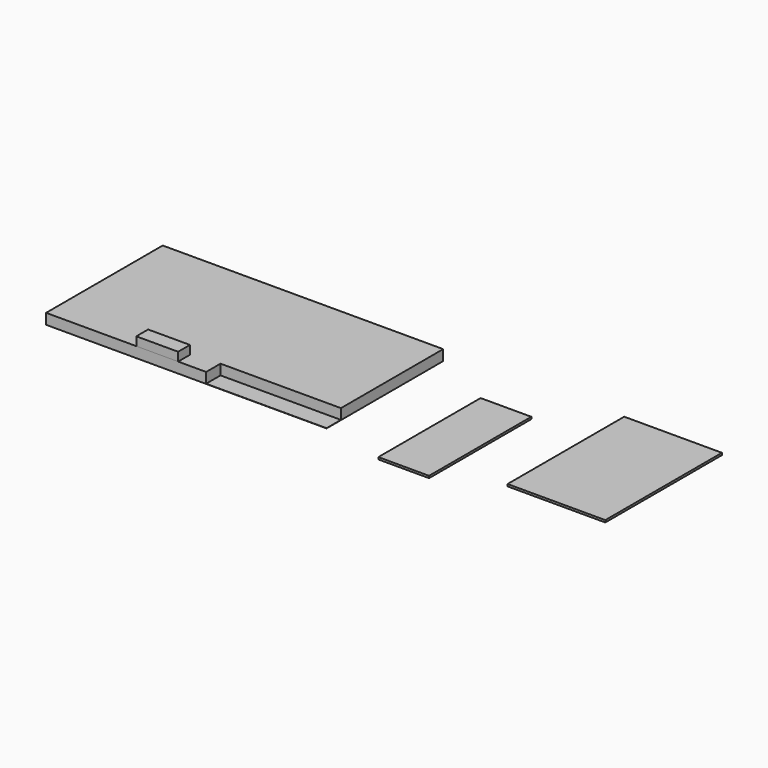
from build123d import *

# Parameters (mm, degrees)
F0_W     = 3371.85
F0_H     = 1752.6
F1_DEPTH = 127
F2_W     = 1447.8
F2_H     = 215.9
F3_DEPTH = 124.46
F4_W     = 502.824642
F4_H     = 104.193904
F5_DEPTH = 177.8
F6_W     = 609.6
F6_H     = 1536.7
F7_DEPTH = 25.4
F8_W     = 1174.75
F8_H     = 1752.6
F9_DEPTH = 25.4


with BuildPart() as f1:
    # F0 (on Top) → F1 (new body)
    with BuildSketch(Plane.XY):
        Rectangle(F0_W, F0_H)
    extrude(amount=-F1_DEPTH)

    # F2 (on face) → F3 (cut)
    with BuildSketch(Plane.XY):
        with Locations((962.025, -768.35)):
            Rectangle(F2_W, F2_H)
    extrude(amount=-F3_DEPTH, mode=Mode.SUBTRACT)


with BuildPart() as f5:
    # F4 (on face) → F5 (new body)
    with BuildSketch(Plane.XZ.offset(876.3)):
        with Locations((-349.837321, 52.096952)):
            Rectangle(F4_W, F4_H)
    extrude(amount=-F5_DEPTH)


with BuildPart() as f7:
    # F6 (on face) → F7 (new body)
    with BuildSketch(Plane.XY):
        with Locations((2916.969489, -487.496719)):
            Rectangle(F6_W, F6_H)
    extrude(amount=F7_DEPTH)


with BuildPart() as f9:
    # F8 (on face) → F9 (new body)
    with BuildSketch(Plane.XY):
        with Locations((4488.853682, -49.359781)):
            Rectangle(F8_W, F8_H)
    extrude(amount=F9_DEPTH)


solid = Compound([f1.part, f5.part, f7.part, f9.part])
